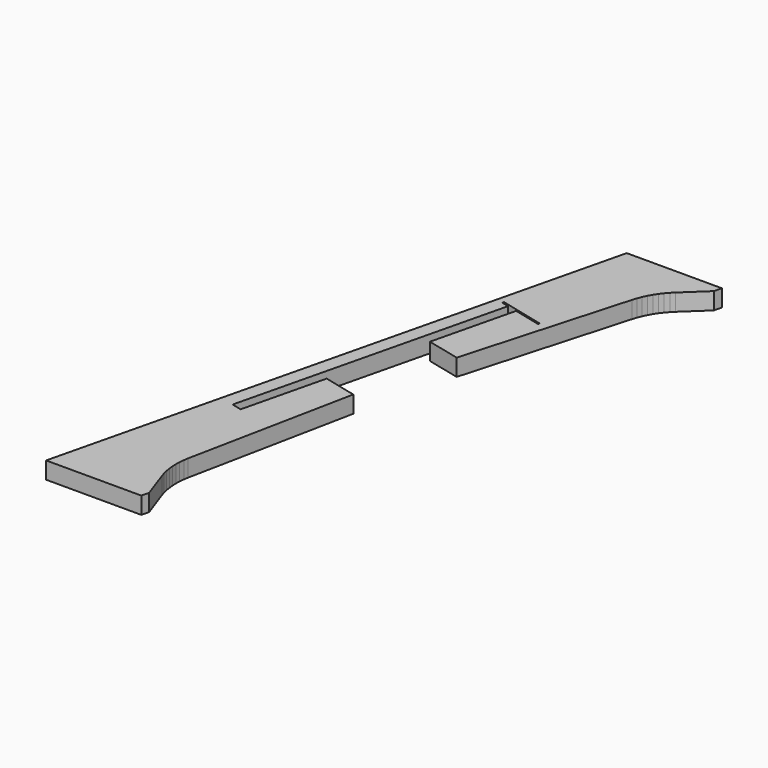
from build123d import *

# Parameters (mm, degrees)
PAD007_DEPTH = 5


with BuildPart() as part:
    # Sketch007 → Pad007 (new body)
    with BuildSketch(Plane.XY):
        with BuildLine():
            add(Edge.make_bspline(
                [(734.531204, -379.005712), (735.06037, -376.783212)],
                knots=[0, 0, 6.47611, 6.47611], degree=1))
            add(Edge.make_bspline(
                [(735.06037, -376.783212), (732.132315, -368.457656)],
                knots=[0, 0, 25.016994, 25.016994], degree=1))
            add(Edge.make_bspline(
                [(732.132315, -368.457656), (731.708982, -367.152379)],
                knots=[0, 0, 3.88973, 3.88973], degree=1))
            add(Edge.make_bspline(
                [(731.708982, -367.152379), (731.391482, -365.847101)],
                knots=[0, 0, 3.807887, 3.807887], degree=1))
            add(Edge.make_bspline(
                [(731.391482, -365.847101), (731.179815, -364.506545)],
                knots=[0, 0, 3.847077, 3.847077], degree=1))
            add(Edge.make_bspline(
                [(731.179815, -364.506545), (731.038704, -363.16599)],
                knots=[0, 0, 3.820995, 3.820995], degree=1))
            add(Edge.make_bspline(
                [(731.038704, -363.16599), (730.968148, -361.825434)],
                knots=[0, 0, 3.80526, 3.80526], degree=1))
            add(Edge.make_bspline(
                [(730.968148, -361.825434), (731.003426, -360.484879)],
                knots=[0, 0, 3.801316, 3.801316], degree=1))
            add(Edge.make_bspline(
                [(731.003426, -360.484879), (731.144537, -359.144323)],
                knots=[0, 0, 3.820995, 3.820995], degree=1))
            add(Edge.make_bspline(
                [(731.144537, -359.144323), (731.356204, -357.803768)],
                knots=[0, 0, 3.847077, 3.847077], degree=1))
            add(Edge.make_bspline(
                [(731.356204, -357.803768), (741.128148, -309.296824)],
                knots=[0, 0, 140.262397, 140.262397], degree=1))
            add(Edge.make_bspline(
                [(731.426759, -306.933213), (741.128148, -309.296824)],
                knots=[0, 0, 28.304417, 28.304417], degree=1))
            add(Edge.make_bspline(
                [(731.426759, -306.933213), (725.535371, -331.239602)],
                knots=[0, 0, 70.894993, 70.894993], degree=1))
            add(Edge.make_bspline(
                [(722.607315, -330.534046), (725.535371, -331.239602)],
                knots=[0, 0, 8.537564, 8.537564], degree=1))
            add(Edge.make_bspline(
                [(722.607315, -330.534046), (741.445648, -252.781826)],
                knots=[0, 0, 226.776807, 226.776807], degree=1))
            add(Edge.make_bspline(
                [(739.293704, -252.252659), (741.445648, -252.781826)],
                knots=[0, 0, 6.28172, 6.28172], degree=1))
            add(Edge.make_bspline(
                [(739.434815, -251.75877), (739.293704, -252.252659)],
                knots=[0, 0, 1.456022, 1.456022], degree=1))
            add(Edge.make_bspline(
                [(752.558148, -254.969048), (739.434815, -251.75877)],
                knots=[0, 0, 38.296867, 38.296867], degree=1))
            add(Edge.make_bspline(
                [(752.417037, -255.427659), (752.558148, -254.969048)],
                knots=[0, 0, 1.360147, 1.360147], degree=1))
            add(Edge.make_bspline(
                [(744.373704, -253.487381), (752.417037, -255.427659)],
                knots=[0, 0, 23.453998, 23.453998], degree=1))
            add(Edge.make_bspline(
                [(738.482315, -277.793769), (744.373704, -253.487381)],
                knots=[0, 0, 70.894993, 70.894993], degree=1))
            add(Edge.make_bspline(
                [(738.482315, -277.793769), (748.218981, -280.157381)],
                knots=[0, 0, 28.401584, 28.401584], degree=1))
            add(Edge.make_bspline(
                [(761.73037, -232.532382), (748.218981, -280.157381)],
                knots=[0, 0, 140.327795, 140.327795], degree=1))
            add(Edge.make_bspline(
                [(761.73037, -232.532382), (762.153703, -231.262382)],
                knots=[0, 0, 3.794733, 3.794733], degree=1))
            add(Edge.make_bspline(
                [(762.153703, -231.262382), (762.647592, -229.992382)],
                knots=[0, 0, 3.862642, 3.862642], degree=1))
            add(Edge.make_bspline(
                [(762.647592, -229.992382), (763.212037, -228.792937)],
                knots=[0, 0, 3.757659, 3.757659], degree=1))
            add(Edge.make_bspline(
                [(763.212037, -228.792937), (763.882314, -227.593493)],
                knots=[0, 0, 3.894868, 3.894868], degree=1))
            add(Edge.make_bspline(
                [(763.882314, -227.593493), (764.623148, -226.464604)],
                knots=[0, 0, 3.827532, 3.827532], degree=1))
            add(Edge.make_bspline(
                [(764.623148, -226.464604), (765.434536, -225.406271)],
                knots=[0, 0, 3.780212, 3.780212], degree=1))
            add(Edge.make_bspline(
                [(765.434536, -225.406271), (766.316481, -224.383215)],
                knots=[0, 0, 3.828838, 3.828838], degree=1))
            add(Edge.make_bspline(
                [(766.316481, -224.383215), (767.268981, -223.430715)],
                knots=[0, 0, 3.818377, 3.818377], degree=1))
            add(Edge.make_bspline(
                [(773.689536, -217.398215), (767.268981, -223.430715)],
                knots=[0, 0, 24.972985, 24.972985], degree=1))
            add(Edge.make_bspline(
                [(773.689536, -217.398215), (774.253981, -215.140438)],
                knots=[0, 0, 6.596969, 6.596969], degree=1))
            add(Edge.make_bspline(
                [(774.253981, -215.140438), (746.243426, -215.140438)],
                knots=[0, 0, 79.4, 79.4], degree=1))
            Line((746.243426, -215.140438), (706.520649, -379.005712))
            add(Edge.make_bspline(
                [(734.531204, -379.005712), (706.520649, -379.005712)],
                knots=[0, 0, 79.4, 79.4], degree=1))
        make_face()
    extrude(amount=PAD007_DEPTH)


solid = part.part
